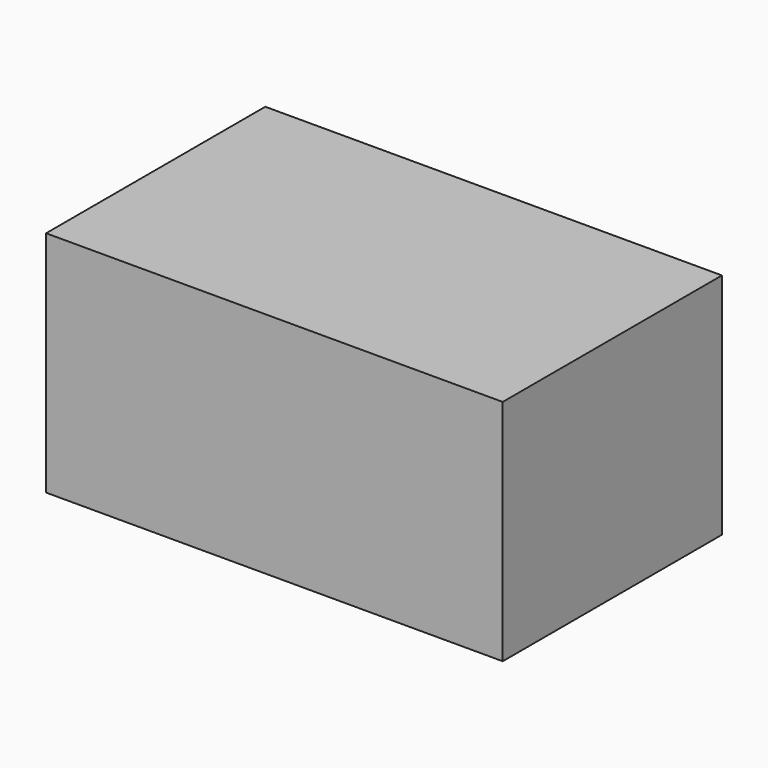
from build123d import *

# Parameters (mm, degrees)
SKETCH_W      = 100
SKETCH_H      = 60
EXTRUDE_DEPTH = 50


with BuildPart() as part:
    # Sketch → Extrude (new body)
    with BuildSketch(Plane.XY):
        Rectangle(SKETCH_W, SKETCH_H)
    extrude(amount=EXTRUDE_DEPTH)


solid = part.part
